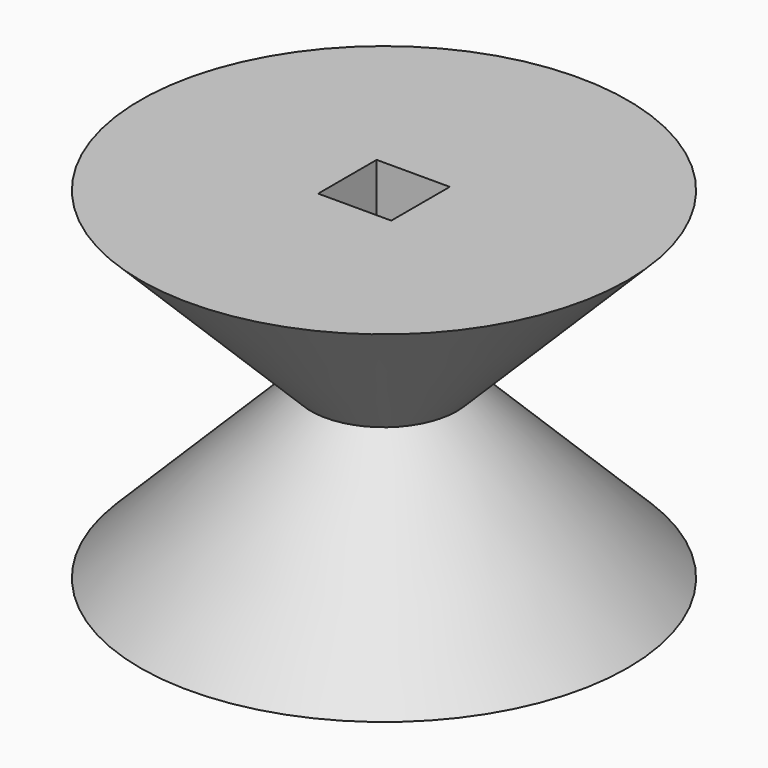
from build123d import *

# Parameters (mm, degrees)
F3_R      = 12.7
F4_R      = 3.81
F2_R      = 12.7
F7_W      = 3.81
F7_H      = 3.81
F8_DEPTH  = 25.4
F9_R      = 1.143
F10_DEPTH = 6.858


with BuildPart() as f5:
    # F3 (on offset) → F5 section 0
    with BuildSketch(Plane.XY.offset(-8.89)):
        Circle(F3_R)
    # F4 (on Top) → F5 section 1
    with BuildSketch(Plane.XY):
        Circle(F4_R)
    loft()

    # F2 (on offset) → F6 section 0
    with BuildSketch(Plane.XY.offset(8.89)):
        Circle(F2_R)
    # F4 (on Top) → F6 section 1
    with BuildSketch(Plane.XY):
        Circle(F4_R)
    loft()

    # F7 (on offset) → F8 (cut)
    with BuildSketch(Plane.XY.offset(8.89)):
        Rectangle(F7_W, F7_H)
    extrude(amount=-F8_DEPTH, mode=Mode.SUBTRACT)

    # F9 (on offset) → F10 (cut)
    with BuildSketch(Plane.XY.offset(-8.89)):
        with Locations((0, 8.72125)):
            Circle(F9_R)
    extrude(amount=F10_DEPTH, mode=Mode.SUBTRACT)


solid = f5.part
